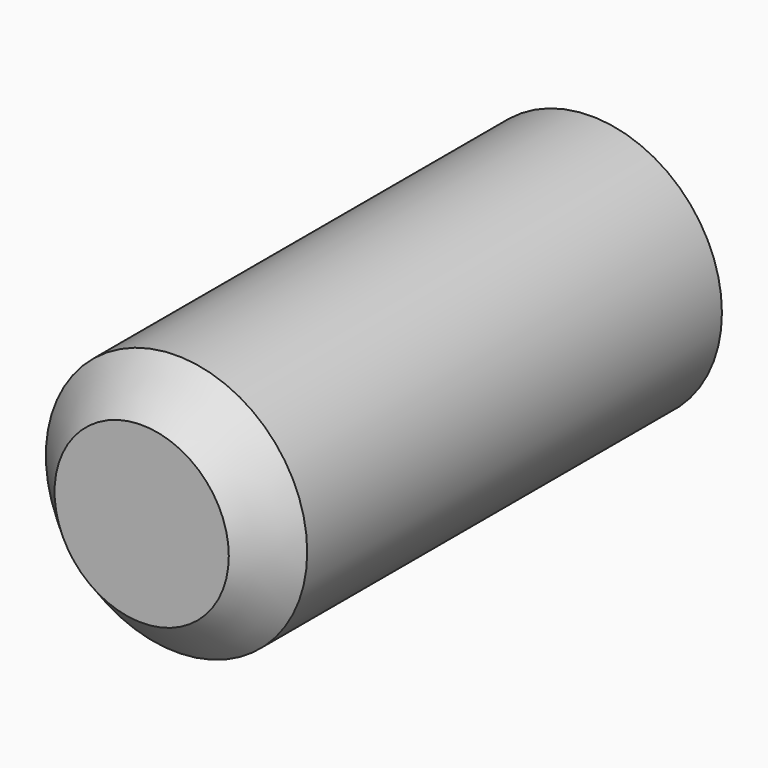
from build123d import *

# Parameters (mm, degrees)
SKETCH014_R  = 1.75
PAD008_DEPTH = 0.1
SKETCH015_R  = 3
PAD009_DEPTH = 12.9
CHAMFER_SIZE = 1


with BuildPart() as part:
    # Sketch014 → Pad008 (new body)
    with BuildSketch(Plane.XZ):
        Circle(SKETCH014_R)
    extrude(amount=PAD008_DEPTH)

    # Sketch015 (on Face3 of Pad008) → Pad009 (join)
    with BuildSketch(Plane.XZ.offset(0.1)):
        Circle(SKETCH015_R)
    extrude(amount=PAD009_DEPTH)

    # Chamfer
    chamfer_edges = [part.edges().sort_by_distance(p)[0] for p in [
        (-3, -13, 0),
    ]]
    chamfer(chamfer_edges, length=CHAMFER_SIZE)


with BuildPart() as part_1:
    # Body002 placement: moved
    add(part.part.moved(Location((0, -9.5, 0))))


solid = part_1.part
